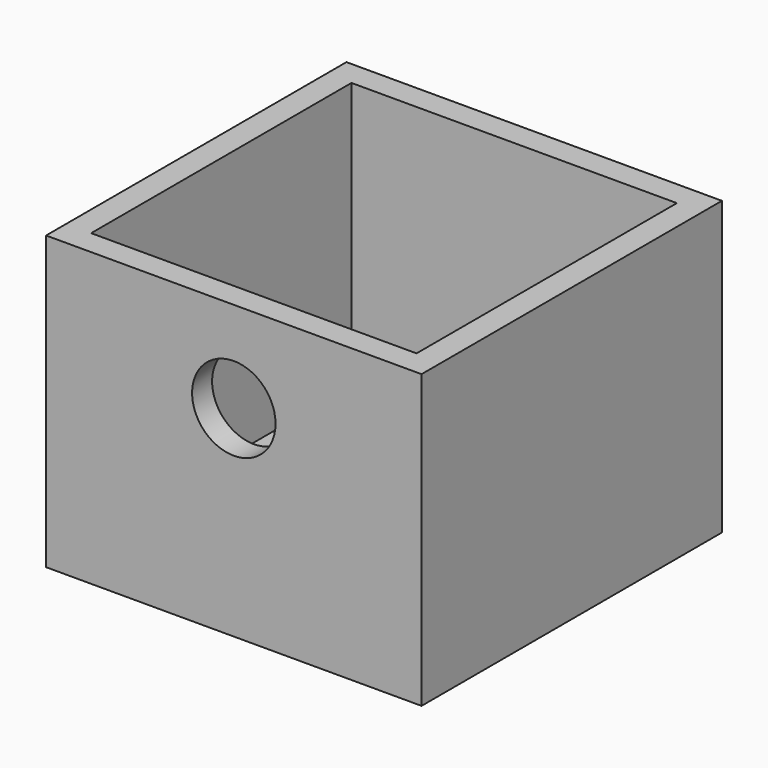
from build123d import *

# Parameters (mm, degrees)
F0_W     = 99.06
F0_H     = 99.06
F1_DEPTH = 7.62
F0_W_2   = 114.3
F0_H_2   = 114.3
F2_DEPTH = 88.9
F3_R     = 12.7
F4_DEPTH = 19.127706


with BuildPart() as f1:
    # F0 (on Top) → F1 (new body)
    with BuildSketch(Plane.XY):
        Rectangle(F0_W, F0_H)
    extrude(amount=F1_DEPTH)

    # F0 (on Top) → F2 (join)
    with BuildSketch(Plane.XY):
        Rectangle(F0_W_2, F0_H_2)
        Rectangle(F0_W, F0_H, mode=Mode.SUBTRACT)
    extrude(amount=F2_DEPTH)

    # F3 (on face) → F4 (cut)
    with BuildSketch(Plane.XZ.offset(57.15)):
        with Locations((0, 61.1534)):
            Circle(F3_R)
    extrude(amount=-F4_DEPTH, mode=Mode.SUBTRACT)


solid = f1.part
